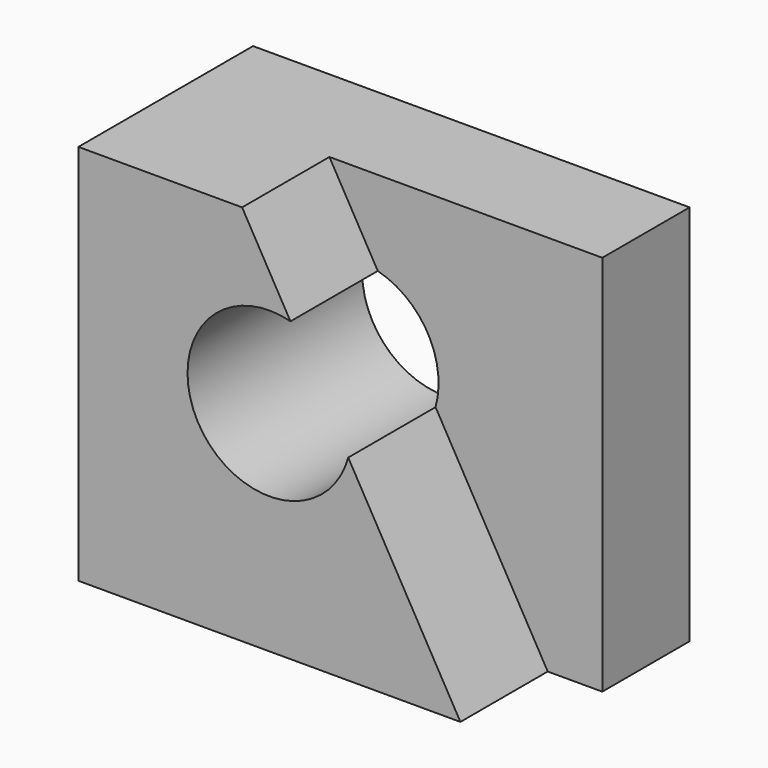
from build123d import *

# Parameters (mm, degrees)
F0_W     = 19.05
F0_H     = 44.45
F1_DEPTH = 25.4
F2_W     = 12.7
F2_H     = 44.45
F3_DEPTH = 25.4
F5_DEPTH = 25.4
F6_W     = 12.7
F6_H     = 44.45
F7_DEPTH = 31.75
F8_R     = 9.525
F9_DEPTH = 25.4


with BuildPart() as f1:
    # F0 (on Front) → F1 (new body)
    with BuildSketch(Plane.XZ):
        with Locations((-54.87412, 22.225)):
            Rectangle(F0_W, F0_H)
        with Locations((-54.87412, 22.225)):
            Rectangle(F0_W, F0_H)
    extrude(amount=F1_DEPTH)

    # F2 (on face) → F3 (join)
    with BuildSketch(Plane.YZ.offset(-45.34912)):
        with Locations((-19.05, 22.225)):
            Rectangle(F2_W, F2_H)
    extrude(amount=F3_DEPTH)

    # F4 (on face) → F5 (cut)
    with BuildSketch(Plane(origin=(0, -12.7, 0), x_dir=(-1, 0, 0), z_dir=(0, 1, 0))):
        Polygon((19.94912, 0), (45.34912, 44.45), (19.94912, 44.45), align=None)
    extrude(amount=-F5_DEPTH, mode=Mode.SUBTRACT)

    # F6 (on face) → F7 (join)
    with BuildSketch(Plane.YZ.offset(-45.34912)):
        with Locations((-6.35, 22.225)):
            Rectangle(F6_W, F6_H)
    extrude(amount=F7_DEPTH)

    # F8 (on face) → F9 (cut)
    with BuildSketch(Plane(origin=(0, 0, 0), x_dir=(-1, 0, 0), z_dir=(0, 1, 0))):
        with Locations((42.17412, 25.4)):
            Circle(F8_R)
        with Locations((42.17412, 25.4)):
            Circle(F8_R)
    extrude(amount=-F9_DEPTH, mode=Mode.SUBTRACT)


solid = f1.part
